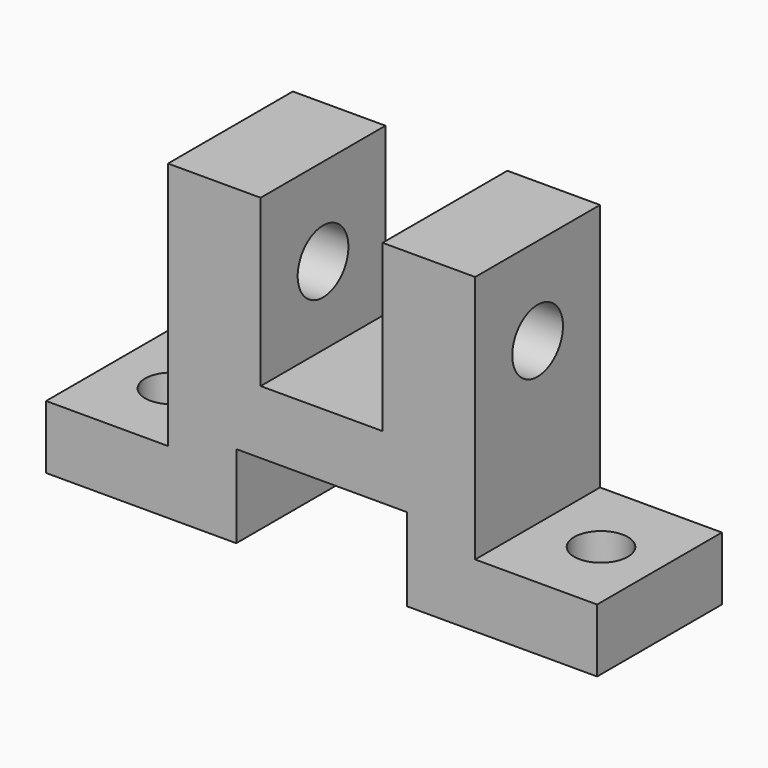
from build123d import *

# Parameters (mm, degrees)
F1_DEPTH = 32
F2_R     = 6.5
F3_DEPTH = 113.001
F4_R     = 5.5
F5_DEPTH = 25
F6_R     = 5.5
F7_DEPTH = 25


with BuildPart() as f1:
    # F0 (on Front) → F1 (new body)
    with BuildSketch(Plane.XZ):
        Polygon((0, 13), (0, 0), (39, 0), (39, 17), (74, 17), (74, 0), (113, 0), (113, 13), (88, 13), (88, 64), (69, 64), (69, 30), (44, 30), (44, 64), (25, 64), (25, 13), align=None)
    extrude(amount=F1_DEPTH)

    # F2 (on Right) → F3 (cut, through all)
    with BuildSketch(Plane.YZ):
        with Locations((-16, 46)):
            Circle(F2_R)
    extrude(amount=F3_DEPTH, mode=Mode.SUBTRACT)

    # F4 (on Top) → F5 (cut)
    with BuildSketch(Plane.XY):
        with Locations((13, -16)):
            Circle(F4_R)
    extrude(amount=F5_DEPTH, mode=Mode.SUBTRACT)

    # F6 (on Top) → F7 (cut)
    with BuildSketch(Plane.XY):
        with Locations((101, -16)):
            Circle(F6_R)
    extrude(amount=F7_DEPTH, mode=Mode.SUBTRACT)


solid = f1.part
